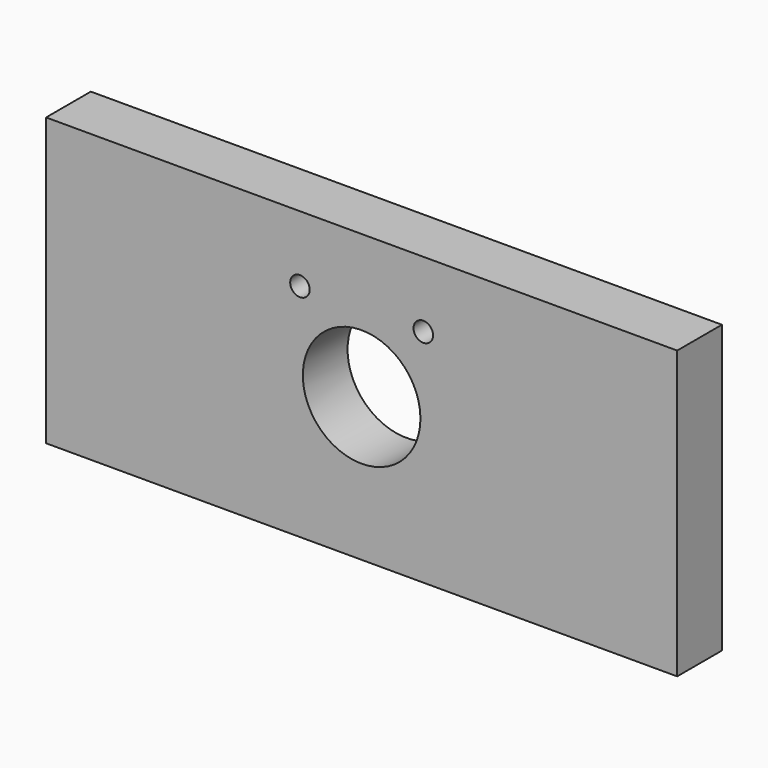
from build123d import *

# Parameters (mm, degrees)
F0_W     = 220
F0_H     = 100
F0_R     = 20.5
F1_DEPTH = 19.5
F3_D     = 6.8
F3_DEPTH = 20
F3_TIP   = 2.0429261047


with BuildPart() as f1:
    # F0 (on Front) → F1 (new body)
    with BuildSketch(Plane.XZ):
        Rectangle(F0_W, F0_H)
        Circle(F0_R, mode=Mode.SUBTRACT)
    extrude(amount=F1_DEPTH)

    # F3
    with Locations(Plane.XZ.offset(19.5)):
        with Locations((-21.5, 27), (21.5, 27)):
            Hole(F3_D / 2, depth=F3_DEPTH)
            with Locations((0, 0, -(F3_DEPTH + F3_TIP / 2))):  # 118° drill point
                Cone(0, F3_D / 2, F3_TIP, mode=Mode.SUBTRACT)


solid = f1.part
